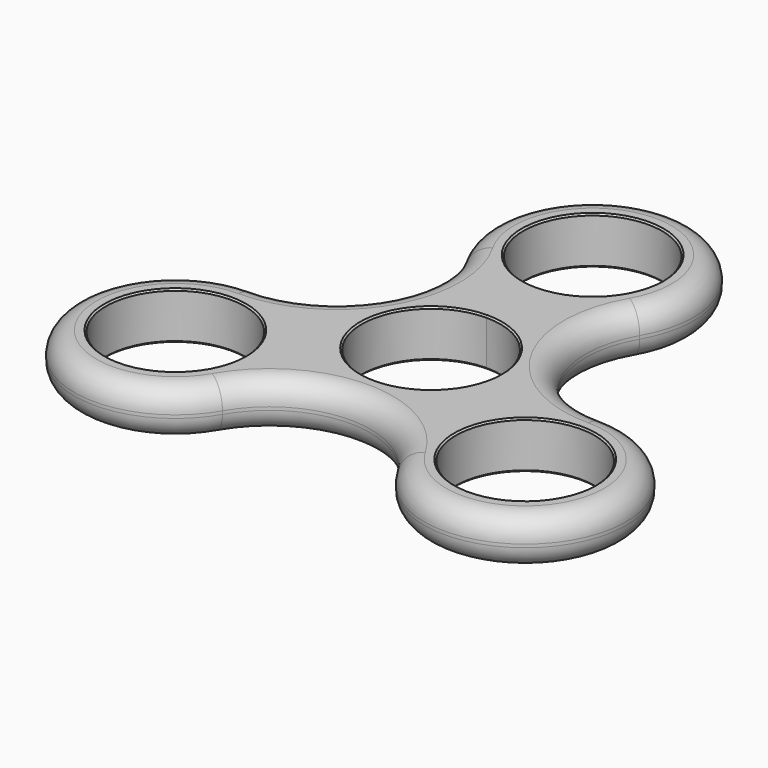
from build123d import *

# Parameters (mm, degrees)
F0_R     = 11
F1_DEPTH = 7.5
F2_R     = 3.5
F3_SIZE  = 0.25


with BuildPart() as f1:
    # F0 (on Top) → F1 (new body)
    with BuildSketch(Plane.XY):
        with BuildLine():
            ThreePointArc((27.712813, 0), (13.856406, 8), (13.856406, 24))
            ThreePointArc((13.856406, 24), (0, 48), (-13.856406, 24))
            ThreePointArc((-13.856406, 24), (-13.856406, 8), (-27.712813, 0))
            ThreePointArc((-27.712813, 0), (-41.569219, -24), (-13.856406, -24))
            ThreePointArc((-13.856406, -24), (0, -16), (13.856406, -24))
            ThreePointArc((13.856406, -24), (41.569219, -24), (27.712813, 0))
        make_face()
        with Locations((-27.712813, -16)):
            Circle(F0_R, mode=Mode.SUBTRACT)
        with Locations((27.712813, -16)):
            Circle(F0_R, mode=Mode.SUBTRACT)
        with BuildLine():
            ThreePointArc((0, 11), (7.778175, 7.778175), (11, 0))
            ThreePointArc((11, 0), (-7.778175, -7.778175), (0, 11))
        make_face(mode=Mode.SUBTRACT)
        with BuildLine():
            ThreePointArc((11, 32), (7.778175, 24.221825), (0, 21))
            ThreePointArc((0, 21), (-7.778175, 39.778175), (11, 32))
        make_face(mode=Mode.SUBTRACT)
    extrude(amount=F1_DEPTH)

    # F2
    f2_edges = [f1.edges().sort_by_distance(p)[0] for p in [
        (-41.569219, -24, 7.5),
        (0, -16, 0),
    ]]
    fillet(f2_edges, radius=F2_R)

    # F3
    f3_edges = [f1.edges().sort_by_distance(p)[0] for p in [
        (-11, 32, 7.5),
        (0, -11, 7.5),
        (-38.712813, -16, 7.5),
        (16.712813, -16, 7.5),
        (16.712813, -16, 0),
        (0, -11, 0),
        (-38.712813, -16, 0),
        (-11, 32, 0),
    ]]
    chamfer(f3_edges, length=F3_SIZE)


solid = f1.part
